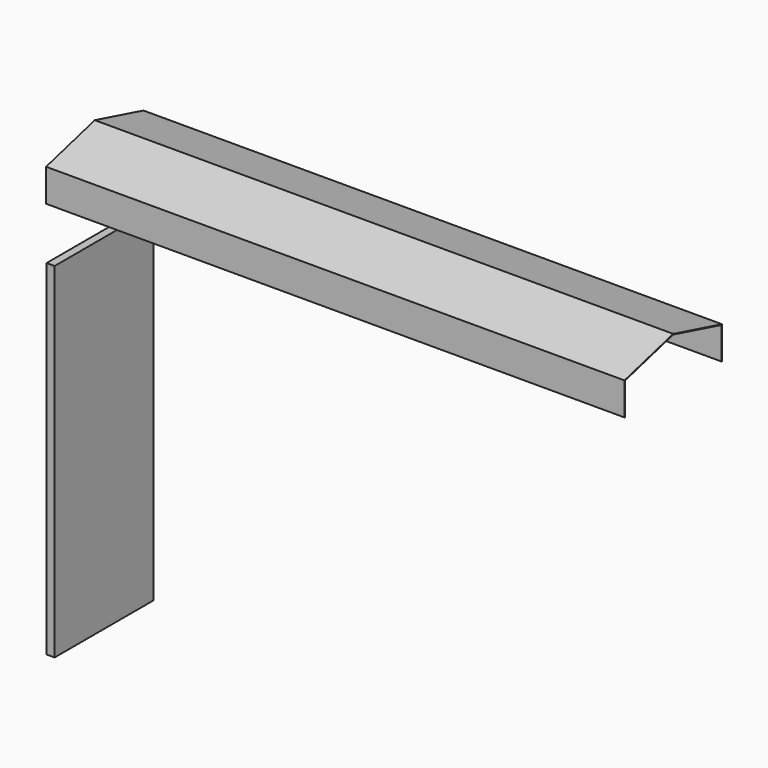
from build123d import *

# Parameters (mm, degrees)
F1_DEPTH = 1828.8
F0_W     = 390.525
F0_H     = 609.6
F0_H_2   = 480.117866
F2_DEPTH = 25.4


with BuildPart() as f1:
    # F0 (on Right) → F1 (new body)
    with BuildSketch(Plane.YZ):
        Polygon((0, 0), (190.5, 50.8), (381, 0), (381, -101.6), (382.9812, -101.6), (382.9812, 1.522113), (190.5, 52.850433), (-1.9812, 1.522113), (-1.9812, -101.6), (0, -101.6), align=None)
    extrude(amount=F1_DEPTH)

    # F0 (on Right) → F2 (join)
    with BuildSketch(Plane.YZ):
        Polygon((0, 0), (190.5, 50.8), (381, 0), (381, -101.6), (382.9812, -101.6), (382.9812, 1.522113), (190.5, 52.850433), (-1.9812, 1.522113), (-1.9812, -101.6), (0, -101.6), align=None)
        with Locations((195.2625, -572.051987)):
            Rectangle(F0_W, F0_H)
        with Locations((195.2625, -1116.91092)):
            Rectangle(F0_W, F0_H_2)
    extrude(amount=F2_DEPTH)


solid = f1.part
